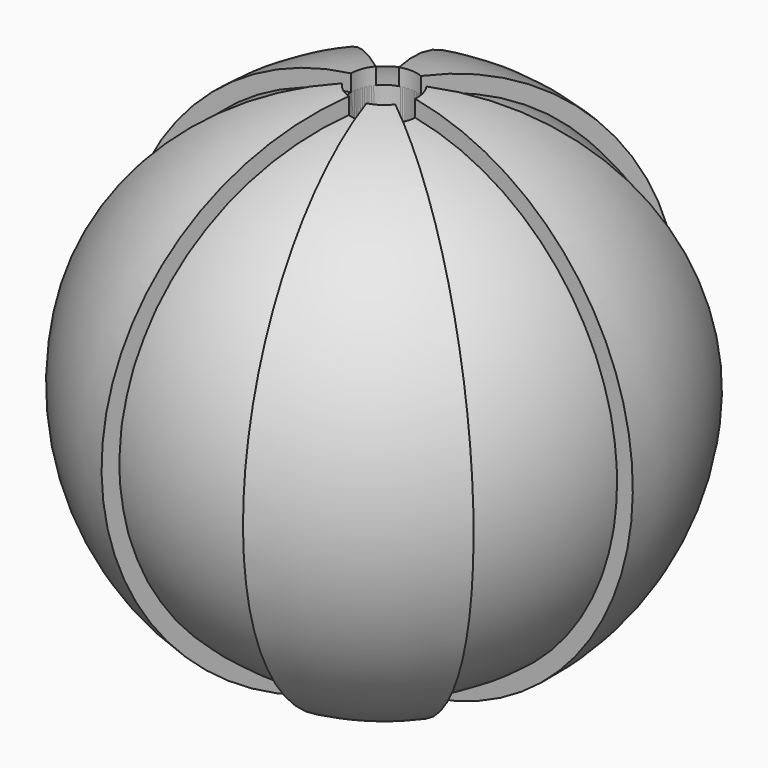
from build123d import *

# Parameters (mm, degrees)
F1_ANGLE = 40
F2_COUNT = 5
F5_R     = 6.35
F6_DEPTH = 50.8


with BuildPart() as f1:
    # F0 (on Front) → F1 (revolve)
    with BuildSketch(Plane.XZ):
        with BuildLine():
            Line((0, -50.8), (0, 50.8))
            ThreePointArc((0, 50.8), (-50.8, 0), (0, -50.8))
        make_face()
    revolve(axis=Axis((0, 0, 0), (0, 0, -1)), revolution_arc=F1_ANGLE)


with BuildPart() as f2_1:
    # F2: instance of F1
    add(f1.part.rotate(Axis((0, 0, 0), (0, 0, -1)), 1 * 360 / F2_COUNT))


with BuildPart() as f2_2:
    # F2: instance of F1
    add(f1.part.rotate(Axis((0, 0, 0), (0, 0, -1)), 2 * 360 / F2_COUNT))


with BuildPart() as f2_3:
    # F2: instance of F1
    add(f1.part.rotate(Axis((0, 0, 0), (0, 0, -1)), 3 * 360 / F2_COUNT))


with BuildPart() as f2_4:
    # F2: instance of F1
    add(f1.part.rotate(Axis((0, 0, 0), (0, 0, -1)), 4 * 360 / F2_COUNT))


with BuildPart() as f4:
    # F3 (on face) → F4 (revolve)
    with BuildSketch(Plane.XZ):
        with BuildLine():
            Line((0, -47.625), (0, 47.625))
            ThreePointArc((0, 47.625), (-47.625, 0), (0, -47.625))
        make_face()
    revolve(axis=Axis((0, 0, 0), (0, 0, -1)))


with BuildPart() as f6_tool:
    # F5 (on Top) → F6 (new body)
    with BuildSketch(Plane.XY):
        Circle(F5_R)
    extrude(amount=F6_DEPTH)


with BuildPart() as f1_1:
    add(f1.part)

    # F6: cut by f6_tool
    add(f6_tool.part, mode=Mode.SUBTRACT)


with BuildPart() as f2_1_1:
    add(f2_1.part)

    # F6: cut by f6_tool
    add(f6_tool.part, mode=Mode.SUBTRACT)


with BuildPart() as f2_2_1:
    add(f2_2.part)

    # F6: cut by f6_tool
    add(f6_tool.part, mode=Mode.SUBTRACT)


with BuildPart() as f2_3_1:
    add(f2_3.part)

    # F6: cut by f6_tool
    add(f6_tool.part, mode=Mode.SUBTRACT)


with BuildPart() as f2_4_1:
    add(f2_4.part)

    # F6: cut by f6_tool
    add(f6_tool.part, mode=Mode.SUBTRACT)


with BuildPart() as f4_1:
    add(f4.part)

    # F6: cut by f6_tool
    add(f6_tool.part, mode=Mode.SUBTRACT)


solid = Compound([f1_1.part, f2_1_1.part, f2_2_1.part, f2_3_1.part, f2_4_1.part, f4_1.part])
